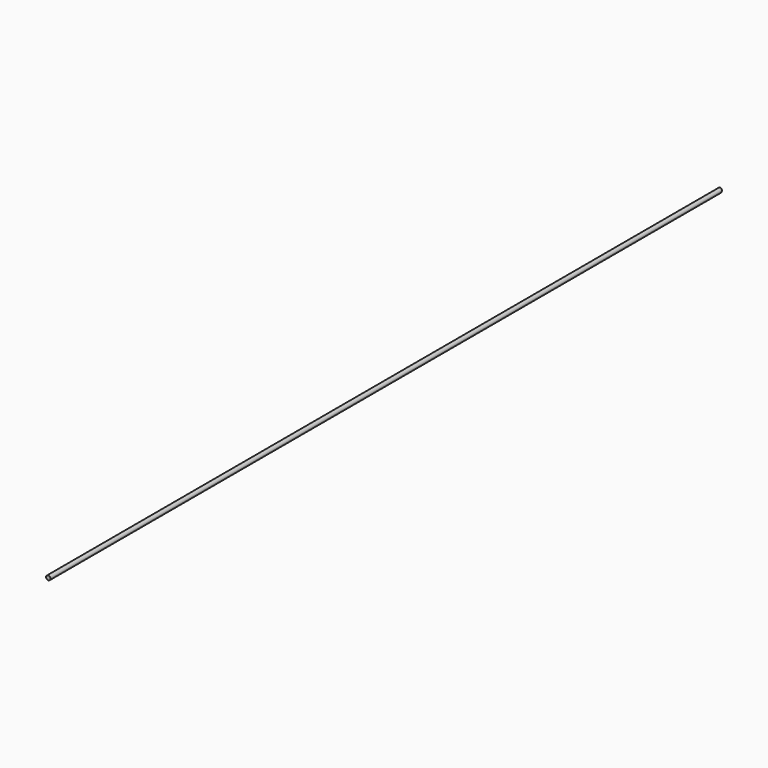
from build123d import *

# Parameters (mm, degrees)
F0_R     = 11
F1_DEPTH = 4270.34547
F3_DEPTH = 25


with BuildPart() as f1:
    # F0 (on Front) → F1 (new body)
    with BuildSketch(Plane.XZ):
        Circle(F0_R)
    extrude(amount=F1_DEPTH)

    # F2 (on Right) → F3 (cut, symmetric)
    with BuildSketch(Plane.YZ):
        Polygon((-3.879194, -11), (0, -11), (0, 11), align=None)
    extrude(amount=F3_DEPTH, both=True, mode=Mode.SUBTRACT)


solid = f1.part
